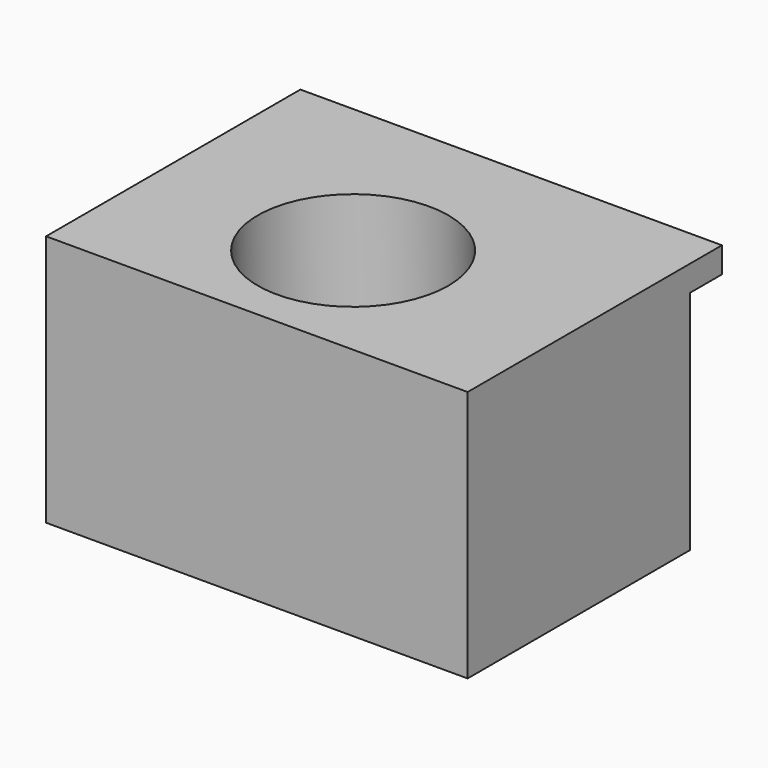
from build123d import *

# Parameters (mm, degrees)
F0_W           = 42.460177
F0_H           = 28.017944
F1_DEPTH       = 25.4
F3_D           = 13.74
F3_CBORE_D     = 19.2
F3_CBORE_DEPTH = 14
F4_W           = 42.460177
F4_H           = 2.585244
F5_DEPTH       = 4


with BuildPart() as f1:
    # F0 (on Top) → F1 (new body)
    with BuildSketch(Plane.XY):
        with Locations((-26.357082, 24.479595)):
            Rectangle(F0_W, F0_H)
    extrude(amount=F1_DEPTH)

    # F3 (through all)
    with Locations(Plane.XY.offset(25.4)):
        with Locations((-27.221344, 23.667647)):
            CounterBoreHole(F3_D / 2, F3_CBORE_D / 2, F3_CBORE_DEPTH)

    # F4 (on face) → F5 (join)
    with BuildSketch(Plane(origin=(0, 38.488567, 0), x_dir=(-1, 0, 0), z_dir=(0, 1, 0))):
        with Locations((26.357082, 24.107378)):
            Rectangle(F4_W, F4_H)
    extrude(amount=F5_DEPTH)


solid = f1.part
